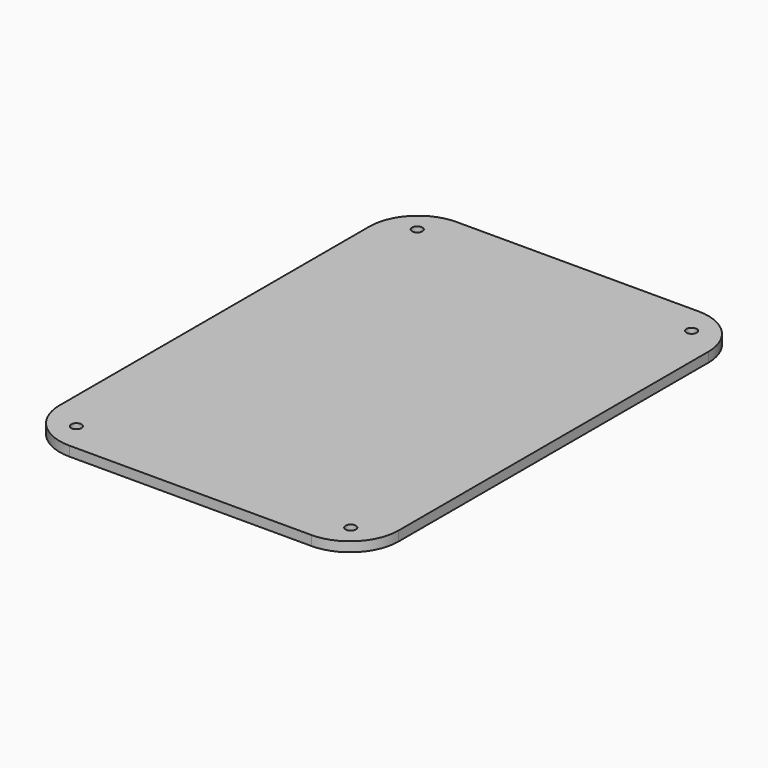
from build123d import *

# Parameters (mm, degrees)
CYLINDER015_R     = 1.6
CYLINDER015_DEPTH = 22
CYLINDER016_R     = 1.6
CYLINDER016_DEPTH = 22
CYLINDER013_R     = 1.6
CYLINDER013_DEPTH = 22
CYLINDER014_R     = 1.6
CYLINDER014_DEPTH = 22
BOX006_W          = 105
BOX006_H          = 150
BOX006_DEPTH      = 3
FILLET004_R       = 15


with BuildPart() as cilindro015:
    # Cylinder015 → Cylinder015 (new body)
    with BuildSketch(Plane(origin=(10, 141, 51), x_dir=(1, 0, 0), z_dir=(0, 0, 1))):
        Circle(CYLINDER015_R)
    extrude(amount=CYLINDER015_DEPTH)


with BuildPart() as cilindro016:
    # Cylinder016 → Cylinder016 (new body)
    with BuildSketch(Plane(origin=(95, 141, 51), x_dir=(1, 0, 0), z_dir=(0, 0, 1))):
        Circle(CYLINDER016_R)
    extrude(amount=CYLINDER016_DEPTH)


with BuildPart() as cilindro013:
    # Cylinder013 → Cylinder013 (new body)
    with BuildSketch(Plane(origin=(95, 9, 51), x_dir=(1, 0, 0), z_dir=(0, 0, 1))):
        Circle(CYLINDER013_R)
    extrude(amount=CYLINDER013_DEPTH)


with BuildPart() as fusion006:
    # Cylinder014 → Cylinder014 (new body)
    with BuildSketch(Plane(origin=(10, 9, 51), x_dir=(1, 0, 0), z_dir=(0, 0, 1))):
        Circle(CYLINDER014_R)
    extrude(amount=CYLINDER014_DEPTH)

    # Fusion006: union Cilindro015, Cilindro016, Cilindro013
    add(cilindro015.part)
    add(cilindro016.part)
    add(cilindro013.part)


with BuildPart() as fusion006_1:
    # Fusion006 placement: moved
    add(fusion006.part.moved(Location((0, 0, 7))))


with BuildPart() as cut008:
    # Box006 → Box006 (new body)
    with BuildSketch(Plane.XY):
        with Locations((52.5, 75)):
            Rectangle(BOX006_W, BOX006_H)
    extrude(amount=BOX006_DEPTH)

    # Fillet004
    fillet004_edges = [cut008.edges().sort_by_distance(p)[0] for p in [
        (0, 0, 1.5),
        (0, 150, 1.5),
        (105, 0, 1.5),
        (105, 150, 1.5),
    ]]
    fillet(fillet004_edges, radius=FILLET004_R)


with BuildPart() as cut008_1:
    # Fillet004 placement: moved
    add(cut008.part.moved(Location((0, 0, 72))))

    # Cut008: cut Fusion006
    add(fusion006_1.part, mode=Mode.SUBTRACT)


with BuildPart() as cut008_2:
    # Cut008 placement: moved
    add(cut008_1.part.moved(Location((0, 0, 1))))


solid = cut008_2.part
